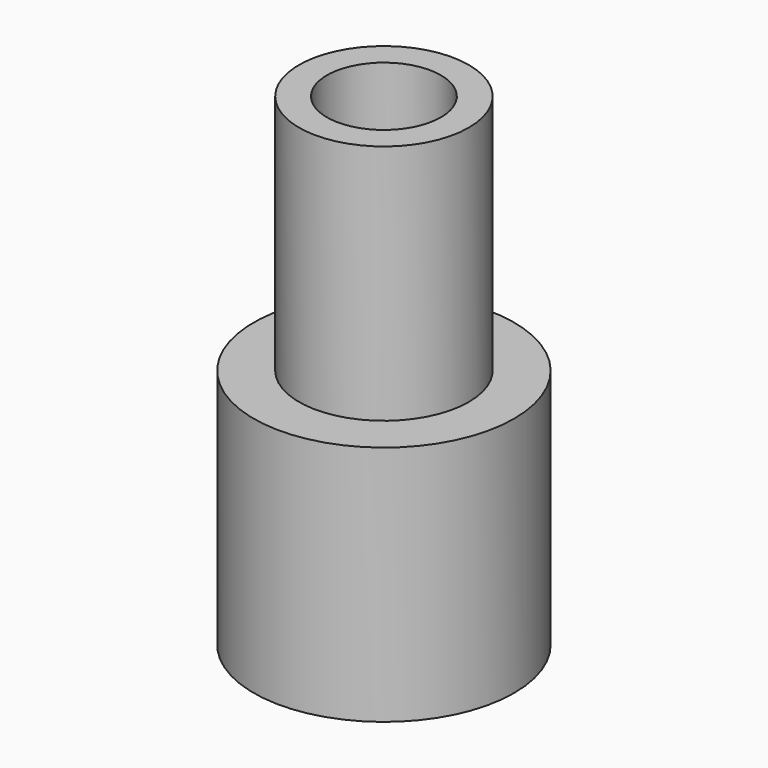
from build123d import *

# Parameters (mm, degrees)
F0_R     = 26.964837
F1_DEPTH = 50
F2_R     = 17.581895
F3_DEPTH = 50
F4_R     = 11.797874
F5_DEPTH = 100.001


with BuildPart() as f1:
    # F0 (on Top) → F1 (new body)
    with BuildSketch(Plane.XY):
        Circle(F0_R)
    extrude(amount=F1_DEPTH)

    # F2 (on face) → F3 (join)
    with BuildSketch(Plane.XY.offset(50)):
        Circle(F2_R)
    extrude(amount=F3_DEPTH)

    # F4 (on face) → F5 (cut, through all)
    with BuildSketch(Plane.XY.offset(100)):
        Circle(F4_R)
    extrude(amount=-F5_DEPTH, mode=Mode.SUBTRACT)


solid = f1.part
